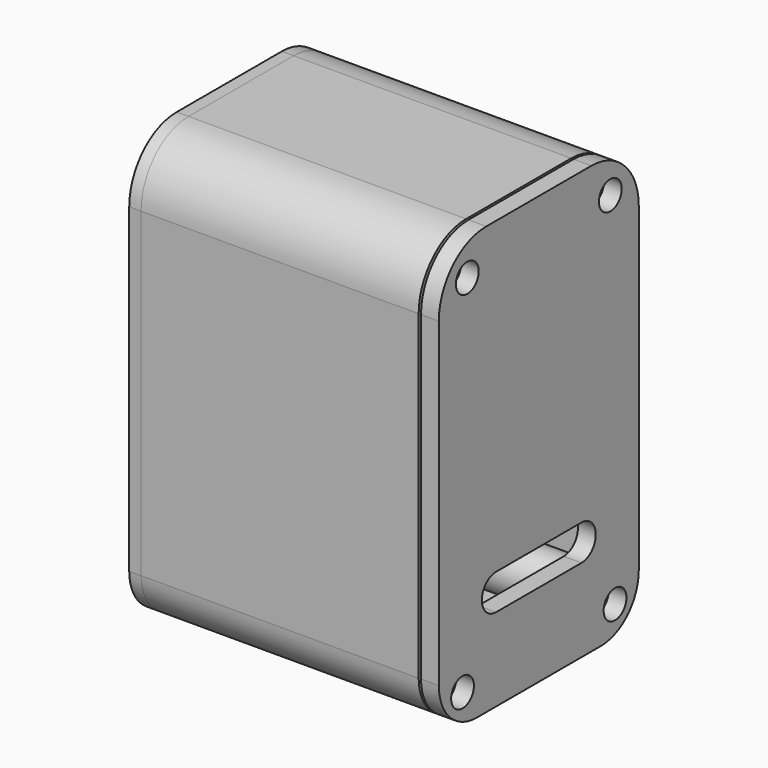
from build123d import *

# Parameters (mm, degrees)
SKETCH_R         = 0.8
EXTRUDE_DEPTH    = 23.5
SKETCH001_R      = 1.1
EXTRUDE001_DEPTH = 1
SKETCH002_R      = 1.2
EXTRUDE002_DEPTH = 1.5
SKETCH003_W      = 0.6
SKETCH003_H      = 1.4
EXTRUDE003_DEPTH = 0.5
ARRAY_Y_COUNT    = 6
ARRAY_Y_PITCH    = 2.5
ARRAY_Z_COUNT    = 2
ARRAY_Z_PITCH    = 2.7


with BuildPart() as hull_extrude:
    # Sketch → Extrude (new body)
    with BuildSketch(Plane(origin=(0, 0, 0), x_dir=(0, -1, 0), z_dir=(-1, 0, 0))):
        with BuildLine():
            Line((-5.535, 8.96), (5.535, 8.96))
            ThreePointArc((10.535, 3.96), (9.070534, 7.495534), (5.535, 8.96))
            Line((10.535, 3.96), (10.535, -23.090001))
            ThreePointArc((6.535, -27.090001), (9.363428, -25.918428), (10.535, -23.090001))
            Line((-6.535, -27.090001), (6.535, -27.090001))
            ThreePointArc((-10.535, -23.090001), (-9.363428, -25.918428), (-6.535, -27.090001))
            Line((-10.535, 3.96), (-10.535, -23.090001))
            ThreePointArc((-5.535, 8.96), (-9.070534, 7.495534), (-10.535, 3.96))
        make_face()
        with Locations((-7.535, 5.96)):
            Circle(SKETCH_R, mode=Mode.SUBTRACT)
        with Locations((7.535, 5.96)):
            Circle(SKETCH_R, mode=Mode.SUBTRACT)
        with Locations((-8.035, -24.590001)):
            Circle(SKETCH_R, mode=Mode.SUBTRACT)
        with Locations((8.035, -24.590001)):
            Circle(SKETCH_R, mode=Mode.SUBTRACT)
        with BuildLine():
            Line((-5.535, 7.96), (5.535, 7.96))
            ThreePointArc((5.535, 7.96), (5.535, 3.96), (9.535, 3.96))
            Line((9.535, 3.96), (9.535, -23.090001))
            ThreePointArc((9.535, -23.090001), (6.535, -23.090001), (6.535, -26.090001))
            Line((-6.535, -26.090001), (6.535, -26.090001))
            ThreePointArc((-6.535, -26.090001), (-6.535, -23.090001), (-9.535, -23.090001))
            Line((-9.535, 3.96), (-9.535, -23.090001))
            ThreePointArc((-9.535, 3.96), (-5.535, 3.96), (-5.535, 7.96))
        make_face(mode=Mode.SUBTRACT)
    extrude(amount=-EXTRUDE_DEPTH)


with BuildPart() as hull_extrude_1:
    # Extrude placement: moved
    add(hull_extrude.part.moved(Location((1.4, 0, 0))))


with BuildPart() as usb_side_extrude:
    # Sketch001 → Extrude001 (new body)
    with BuildSketch(Plane(origin=(0, 0, 0), x_dir=(0, -1, 0), z_dir=(-1, 0, 0))):
        with BuildLine():
            Line((-5.535, 8.96), (5.535, 8.96))
            ThreePointArc((10.535, 3.96), (9.070534, 7.495534), (5.535, 8.96))
            Line((10.535, 3.96), (10.535, -23.090001))
            ThreePointArc((6.535, -27.090001), (9.363428, -25.918428), (10.535, -23.090001))
            Line((-6.535, -27.090001), (6.535, -27.090001))
            ThreePointArc((-10.535, -23.090001), (-9.363428, -25.918428), (-6.535, -27.090001))
            Line((-10.535, 3.96), (-10.535, -23.090001))
            ThreePointArc((-5.535, 8.96), (-9.070534, 7.495534), (-10.535, 3.96))
        make_face()
        with Locations((-7.535, 5.96)):
            Circle(SKETCH001_R, mode=Mode.SUBTRACT)
        with Locations((7.535, 5.96)):
            Circle(SKETCH001_R, mode=Mode.SUBTRACT)
        with Locations((-8.035, -24.590001)):
            Circle(SKETCH001_R, mode=Mode.SUBTRACT)
        with Locations((8.035, -24.590001)):
            Circle(SKETCH001_R, mode=Mode.SUBTRACT)
        with BuildLine():
            Line((-3.003735, 3.52289), (3.003735, 3.52289))
            ThreePointArc((3.003735, -0.27711), (4.903735, 1.62289), (3.003735, 3.52289))
            Line((-3.003735, -0.27711), (3.003735, -0.27711))
            ThreePointArc((-3.003735, 3.52289), (-4.903735, 1.62289), (-3.003735, -0.27711))
        make_face(mode=Mode.SUBTRACT)
    extrude(amount=-EXTRUDE001_DEPTH)


with BuildPart() as usb_side_extrude_1:
    # Extrude001 placement: moved
    add(usb_side_extrude.part.moved(Location((0.5, 0, 0))))


with BuildPart() as back_side_extrude:
    # Sketch002 → Extrude002 (new body)
    with BuildSketch(Plane(origin=(0, 0, 0), x_dir=(0, -1, 0), z_dir=(-1, 0, 0))):
        with BuildLine():
            Line((-5.535, 8.96), (5.535, 8.96))
            ThreePointArc((10.535, 3.96), (9.070534, 7.495534), (5.535, 8.96))
            Line((10.535, 3.96), (10.535, -23.090001))
            ThreePointArc((6.535, -27.090001), (9.363428, -25.918428), (10.535, -23.090001))
            Line((-6.535, -27.090001), (6.535, -27.090001))
            ThreePointArc((-10.535, -23.090001), (-9.363428, -25.918428), (-6.535, -27.090001))
            Line((-10.535, 3.96), (-10.535, -23.090001))
            ThreePointArc((-5.535, 8.96), (-9.070534, 7.495534), (-10.535, 3.96))
        make_face()
        with Locations((-7.535, 5.96)):
            Circle(SKETCH002_R, mode=Mode.SUBTRACT)
        with Locations((7.535, 5.96)):
            Circle(SKETCH002_R, mode=Mode.SUBTRACT)
        with Locations((-8.035, -24.590001)):
            Circle(SKETCH002_R, mode=Mode.SUBTRACT)
        with Locations((8.035, -24.590001)):
            Circle(SKETCH002_R, mode=Mode.SUBTRACT)
        with BuildLine():
            Line((-4.5, -17.091149), (4.5, -17.091149))
            ThreePointArc((4.5, -20.091149), (6, -18.591149), (4.5, -17.091149))
            Line((-4.5, -20.091149), (4.5, -20.091149))
            ThreePointArc((-4.5, -17.091149), (-6, -18.591149), (-4.5, -20.091149))
        make_face(mode=Mode.SUBTRACT)
    extrude(amount=EXTRUDE002_DEPTH)


with BuildPart() as back_side_extrude_1:
    # Extrude002 placement: moved
    add(back_side_extrude.part.moved(Location((26.6, 0, 0))))


with BuildPart() as back_side_fusion:
    # Sketch003 → Extrude003 (new body)
    with BuildSketch(Plane.YZ):
        with Locations((-6.296227, -1.918039)):
            Rectangle(SKETCH003_W, SKETCH003_H)
    extrude(amount=-EXTRUDE003_DEPTH)


with BuildPart() as back_side_fusion_1:
    # Extrude003 placement: moved
    add(back_side_fusion.part.moved(Location((25.1, 0, 0))))

    # Array Y: back side fusion ×6


with BuildPart() as back_side_fusion_2:
    add(back_side_fusion_1.part)
    with Locations(*[(0, i * ARRAY_Y_PITCH, 0) for i in range(1, ARRAY_Y_COUNT)]):
        add(back_side_fusion_1.part)

    # Array Z: back side fusion ×2


with BuildPart() as back_side_fusion_3:
    add(back_side_fusion_2.part)
    with Locations(*[(0, 0, i * ARRAY_Z_PITCH) for i in range(1, ARRAY_Z_COUNT)]):
        add(back_side_fusion_2.part)

    # Fusion: union back side extrude
    add(back_side_extrude_1.part)


solid = Compound([hull_extrude_1.part, usb_side_extrude_1.part, back_side_fusion_3.part])
